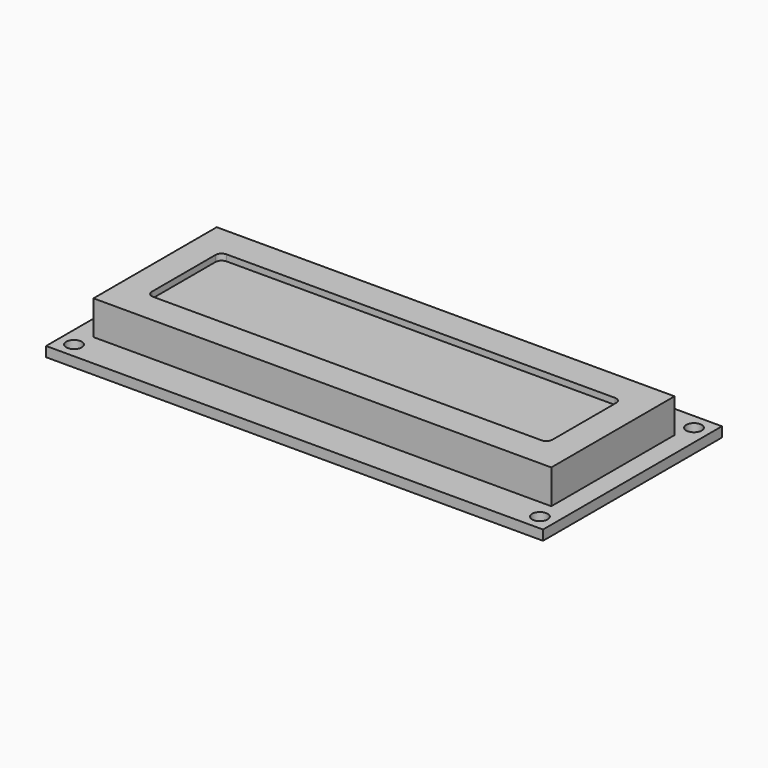
from build123d import *

# Parameters (mm, degrees)
F0_W     = 80
F0_H     = 36
F1_DEPTH = 1.6
F2_R     = 1.25
F3_DEPTH = 1.6
F4_W     = 73.7
F4_H     = 24.8
F5_DEPTH = 5.5
F6_W     = 64.5
F6_H     = 14.8
F7_DEPTH = 1
F8_R     = 1


with BuildPart() as f1:
    # F0 (on Top) → F1 (new body)
    with BuildSketch(Plane.XY):
        with Locations((40, 18)):
            Rectangle(F0_W, F0_H)
    extrude(amount=F1_DEPTH)

    # F2 (on face) → F3 (cut, through all)
    with BuildSketch(Plane.XY.offset(1.6)):
        with Locations((2.5, 2.5)):
            Circle(F2_R)
        with Locations((2.5, 33.5)):
            Circle(F2_R)
        with Locations((77.5, 2.5)):
            Circle(F2_R)
        with Locations((77.5, 33.5)):
            Circle(F2_R)
    extrude(amount=-F3_DEPTH, mode=Mode.SUBTRACT)


with BuildPart() as f5:
    # F4 (on face) → F5 (new body)
    with BuildSketch(Plane.XY.offset(1.6)):
        with Locations((40, 18)):
            Rectangle(F4_W, F4_H)
    extrude(amount=F5_DEPTH)

    # F6 (on face) → F7 (cut)
    with BuildSketch(Plane.XY.offset(7.1)):
        with Locations((40, 18)):
            Rectangle(F6_W, F6_H)
    extrude(amount=-F7_DEPTH, mode=Mode.SUBTRACT)

    # F8
    f8_edges = [f5.edges().sort_by_distance(p)[0] for p in [
        (7.75, 25.4, 6.6),
        (7.75, 10.6, 6.6),
        (72.25, 25.4, 6.6),
        (72.25, 10.6, 6.6),
    ]]
    fillet(f8_edges, radius=F8_R)


solid = Compound([f1.part, f5.part])
